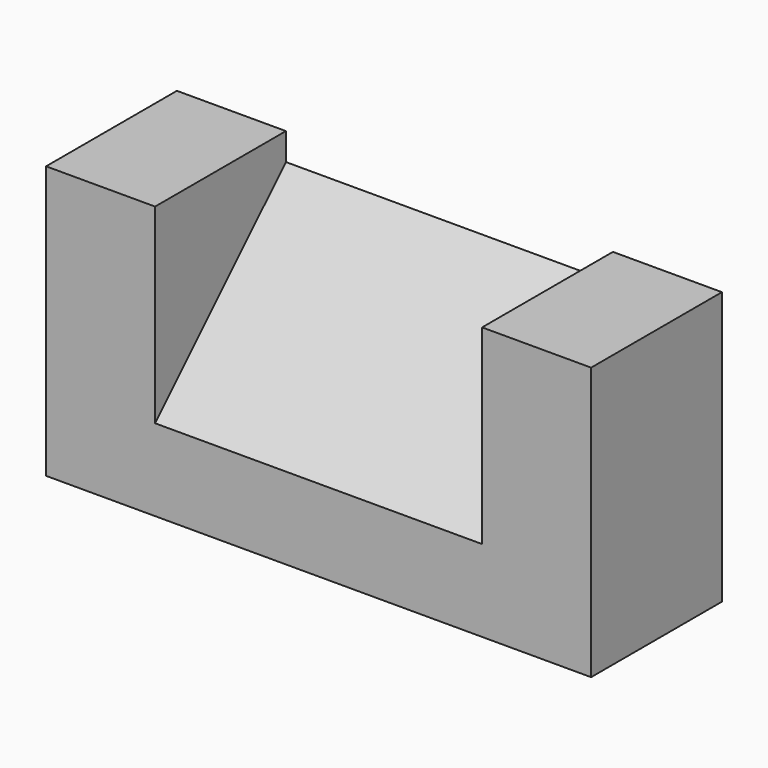
from build123d import *

# Parameters (mm, degrees)
F0_W     = 38.1
F0_H     = 63.5
F1_DEPTH = 76.2
F3_DEPTH = 76.2
F4_W     = 38.1
F4_H     = 63.5
F5_DEPTH = 25.4
F6_W     = 38.1
F6_H     = 63.5
F7_DEPTH = 25.4


with BuildPart() as f1:
    # F0 (on Right) → F1 (new body)
    with BuildSketch(Plane.YZ):
        with Locations((18.2618855059, 0.314003706)):
            Rectangle(F0_W, F0_H)
    extrude(amount=F1_DEPTH)

    # F2 (on face) → F3 (cut)
    with BuildSketch(Plane.YZ.offset(76.2)):
        Polygon((-0.7881144941, 32.064003706), (-0.7881144941, -12.385996294), (37.3118855059, 25.714003706), (37.3118855059, 32.064003706), align=None)
    extrude(amount=-F3_DEPTH, mode=Mode.SUBTRACT)

    # F4 (on face) → F5 (join)
    with BuildSketch(Plane.YZ.offset(76.2)):
        with Locations((18.2618855059, 0.314003706)):
            Rectangle(F4_W, F4_H)
    extrude(amount=F5_DEPTH)

    # F6 (on face) → F7 (join)
    with BuildSketch(Plane(origin=(0, 0, 0), x_dir=(0, -1, 0), z_dir=(-1, 0, 0))):
        with Locations((-18.2618855059, 0.314003706)):
            Rectangle(F6_W, F6_H)
    extrude(amount=F7_DEPTH)


solid = f1.part
